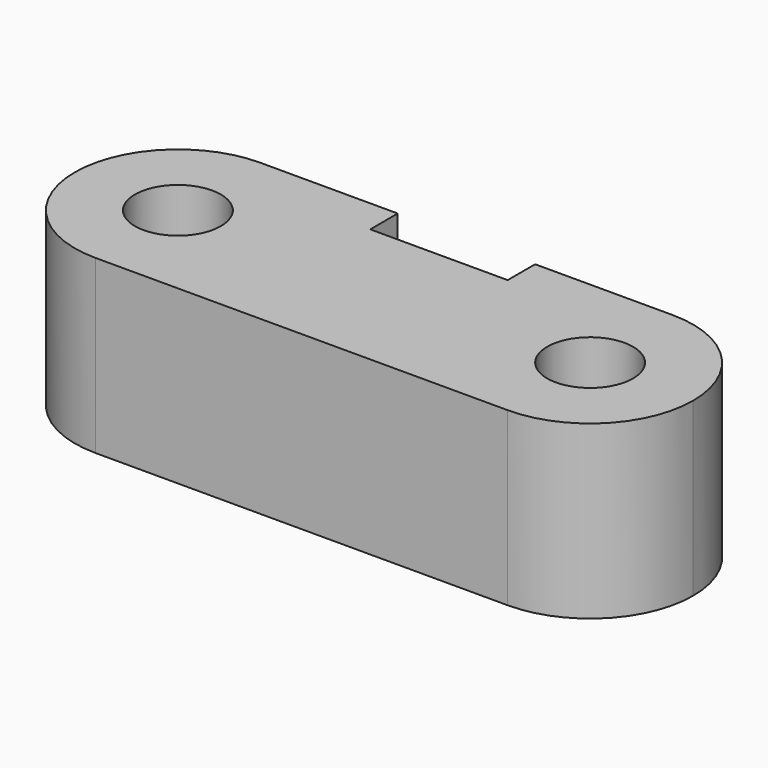
from build123d import *

# Parameters (mm, degrees)
F0_R     = 6.25
F1_DEPTH = 25


with BuildPart() as f1:
    # F0 (on Top) → F1 (new body)
    with BuildSketch(Plane.XY):
        with BuildLine():
            ThreePointArc((-50.125565, -5.075068), (-45.732167, -15.68167), (-35.125565, -20.075068))
            Line((-35.125565, -20.075068), (24.874435, -20.075068))
            ThreePointArc((24.874435, -20.075068), (35.481036, -15.68167), (39.874435, -5.075068))
            ThreePointArc((39.874435, -5.075068), (35.481036, 5.531534), (24.874435, 9.924932))
            Line((24.874435, 9.924932), (4.874435, 9.924932))
            Line((4.874435, 9.924932), (4.874435, 4.924932))
            Line((4.874435, 4.924932), (-15.125565, 4.924932))
            Line((-15.125565, 4.924932), (-15.125565, 9.924932))
            Line((-15.125565, 9.924932), (-35.125565, 9.924932))
            ThreePointArc((-35.125565, 9.924932), (-45.732167, 5.531534), (-50.125565, -5.075068))
        make_face()
        with Locations((-35.125565, -5.075068)):
            Circle(F0_R, mode=Mode.SUBTRACT)
        with Locations((24.874435, -5.075068)):
            Circle(F0_R, mode=Mode.SUBTRACT)
    extrude(amount=F1_DEPTH)


solid = f1.part
